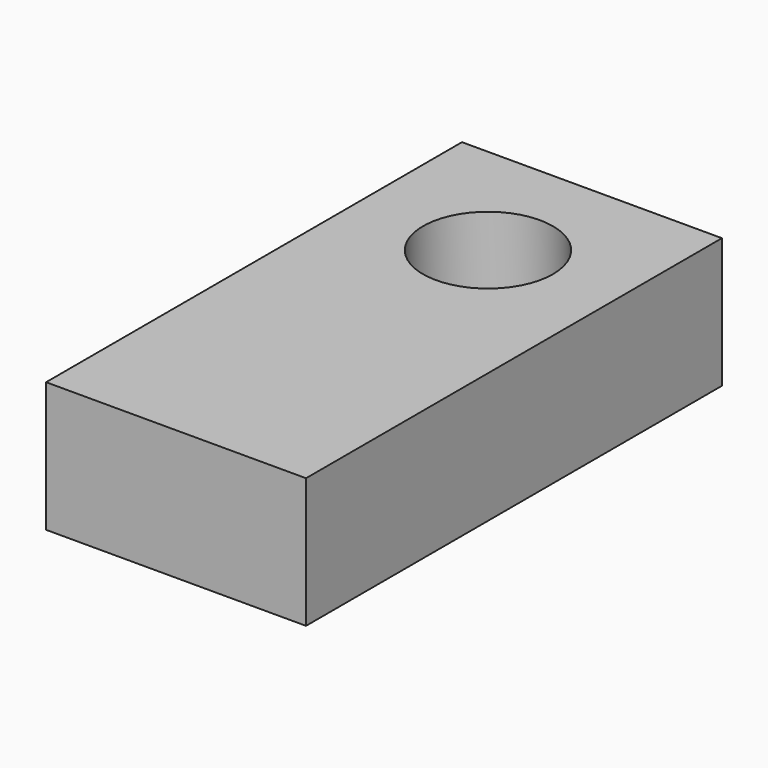
from build123d import *

# Parameters (mm, degrees)
F0_W      = 20
F0_H      = 10
F1_DEPTH  = 30
F1_FACE_W = 20
F1_FACE_H = 10
F2_DEPTH  = 10
F4_R      = 5
F5_DEPTH  = 8


with BuildPart() as f1:
    # F0 (on Front) → F1 (new body)
    with BuildSketch(Plane.XZ):
        with Locations((0, 5)):
            Rectangle(F0_W, F0_H)
    extrude(amount=F1_DEPTH)

    # F1_face (on face) → F2 (join)
    with BuildSketch(Plane(origin=(0, 0, 5), x_dir=(1, 0, 0), z_dir=(0, 1, 0))):
        Rectangle(F1_FACE_W, F1_FACE_H)
    extrude(amount=F2_DEPTH)

    # F4 (on face) → F5 (cut)
    with BuildSketch(Plane.XY.offset(10)):
        Circle(F4_R)
    extrude(amount=-F5_DEPTH, mode=Mode.SUBTRACT)


solid = f1.part
